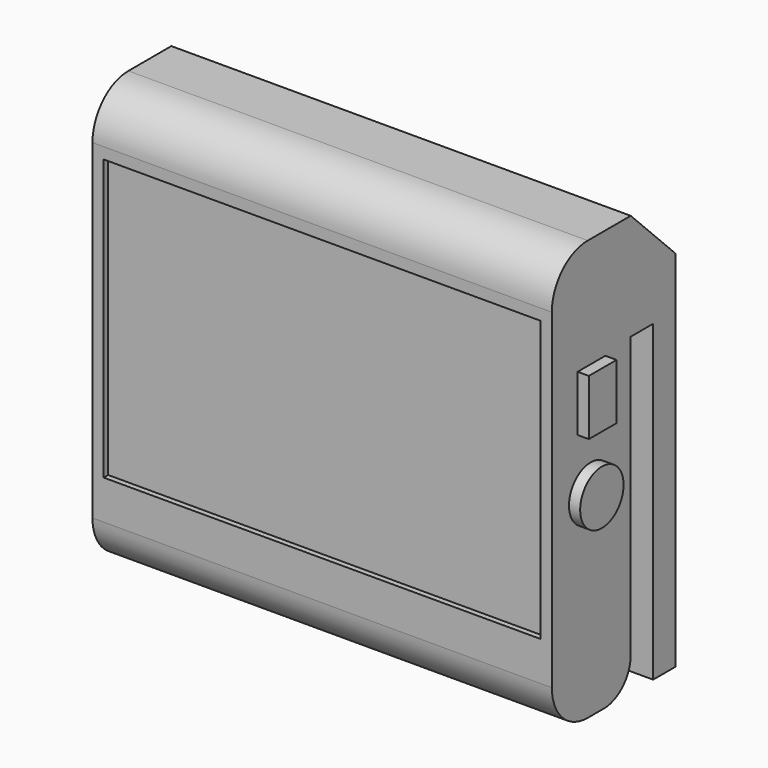
from build123d import *

# Parameters (mm, degrees)
F0_W     = 2.5
F0_H     = 27.965406
F1_DEPTH = 41
F2_W     = 3.093319
F2_H     = 4.968024
F2_R     = 2.421667
F3_DEPTH = 1
F4_W     = 3
F4_H     = 6
F5_DEPTH = 1
F6_W     = 39
F6_H     = 25
F7_DEPTH = 0.5


with BuildPart() as f1:
    # F0 (on Right) → F1 (new body)
    with BuildSketch(Plane.YZ):
        with BuildLine():
            Line((-13.671529, 14.816766), (-18.471529, 14.816766))
            ThreePointArc((-18.471529, 14.816766), (-21.299956, 13.645193), (-22.471529, 10.816766))
            Line((-22.471529, 10.816766), (-22.471529, -18.683234))
            ThreePointArc((-22.471529, -18.683234), (-21.299956, -21.511661), (-18.471529, -22.683234))
            Line((-18.471529, -22.683234), (-16.671529, -22.683234))
            ThreePointArc((-16.671529, -22.683234), (-14.550208, -21.804554), (-13.671529, -19.683234))
            Line((-13.671529, -19.683234), (-13.671529, 5.316766))
            Line((-13.671529, 5.316766), (-13.671529, 9.816766))
            Line((-13.671529, 9.816766), (-13.671529, 14.816766))
        make_face()
        Polygon((-8.671529, 9.816766), (-13.671529, 9.816766), (-13.671529, 5.316766), (-11.171529, 5.316766), (-8.671529, 5.316766), align=None)
        Polygon((-8.671529, 9.816766), (-13.671529, 14.816766), (-13.671529, 9.816766), align=None)
        with Locations((-9.921529, -8.665937)):
            Rectangle(F0_W, F0_H)
    extrude(amount=F1_DEPTH)

    # F2 (on face) → F3 (join)
    with BuildSketch(Plane.YZ.offset(41)):
        with Locations((-18.047974, 2.484012)):
            Rectangle(F2_W, F2_H)
        with Locations((-18.139437, -5.160558)):
            Circle(F2_R)
    extrude(amount=F3_DEPTH)

    # F4 (on face) → F5 (join)
    with BuildSketch(Plane(origin=(0, 0, 0), x_dir=(0, -1, 0), z_dir=(-1, 0, 0))):
        with Locations((18.208981, 2.310598)):
            Rectangle(F4_W, F4_H)
        with Locations((18.208981, -7.405368)):
            Rectangle(F4_W, F4_H)
    extrude(amount=F5_DEPTH)

    # F6 (on face) → F7 (cut)
    with BuildSketch(Plane.XZ.offset(22.471529)):
        with Locations((20.5, -2.683234)):
            Rectangle(F6_W, F6_H)
    extrude(amount=-F7_DEPTH, mode=Mode.SUBTRACT)


solid = f1.part
